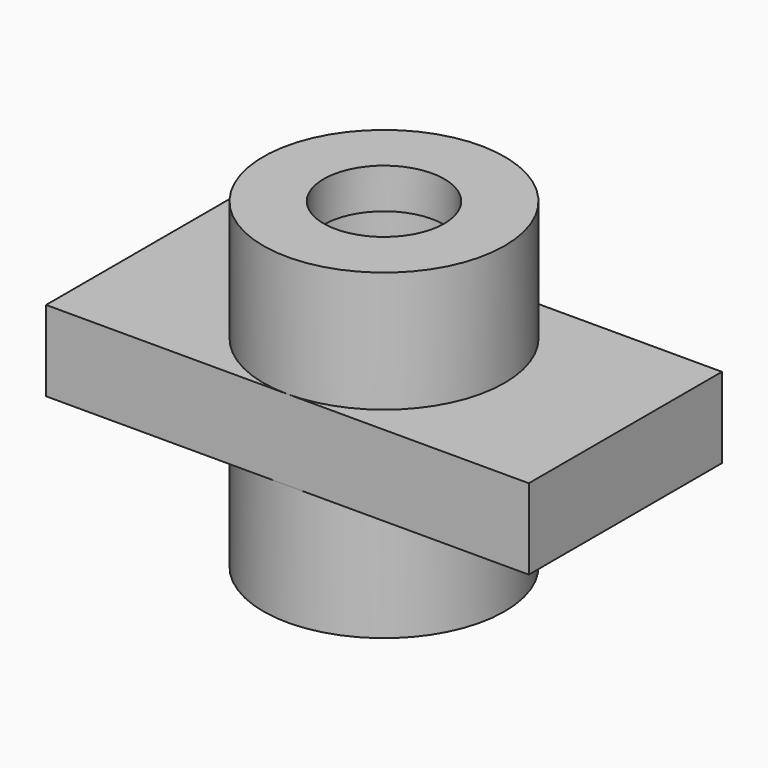
from build123d import *

# Parameters (mm, degrees)
F0_R     = 19.05
F0_R_2   = 9.525
F1_DEPTH = 25.4
F3_START = -6.35
F2_R     = 12.7
F3_DEPTH = 6.35
F5_DEPTH = 6.35


with BuildPart() as f1:
    # F0 (on Top) → F1 (new body, symmetric)
    with BuildSketch(Plane.XY):
        Circle(F0_R)
        Circle(F0_R_2, mode=Mode.SUBTRACT)
    extrude(amount=F1_DEPTH, both=True)

    # F2 (on face) → F3 (cut)
    with BuildSketch(Plane.XY.offset(25.4).offset(F3_START)):
        Circle(F2_R)
    extrude(amount=-F3_DEPTH, mode=Mode.SUBTRACT)

    # F4 (on Top) → F5 (join, symmetric)
    with BuildSketch(Plane.XY):
        Polygon((-38.1, 19.05), (-38.1, 0), (-38.1, -19.05), (38.1, -19.05), (38.1, 0), (38.1, 19.05), align=None)
    extrude(amount=F5_DEPTH, both=True)


solid = f1.part
